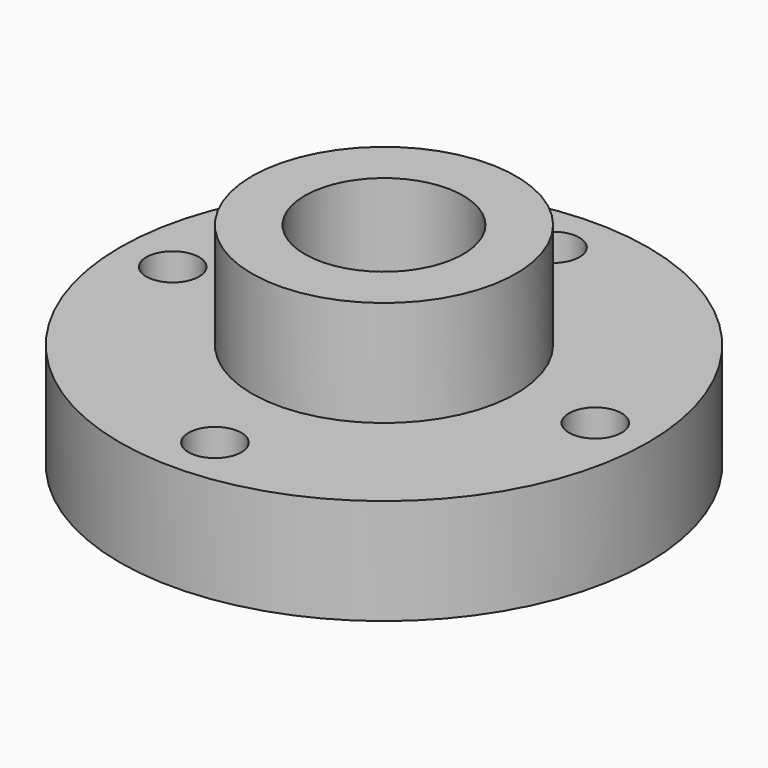
from build123d import *

# Parameters (mm, degrees)
F3_D = 6.35


with BuildPart() as f1:
    # F0 (on Front) → F1 (revolve)
    with BuildSketch(Plane.XZ):
        Polygon((-31.75, 0), (-9.525, 0), (-9.525, 25.4), (-15.875, 25.4), (-15.875, 12.7), (-31.75, 12.7), align=None)
    revolve(axis=Axis((0, 0, 19.356632), (0, 0, 1)))

    # F3 (through all)
    with Locations(Plane.XY.offset(12.7)):
        with Locations((0, 25.4), (-25.4, 0), (0, -25.4), (25.4, 0)):
            Hole(F3_D / 2)


solid = f1.part
